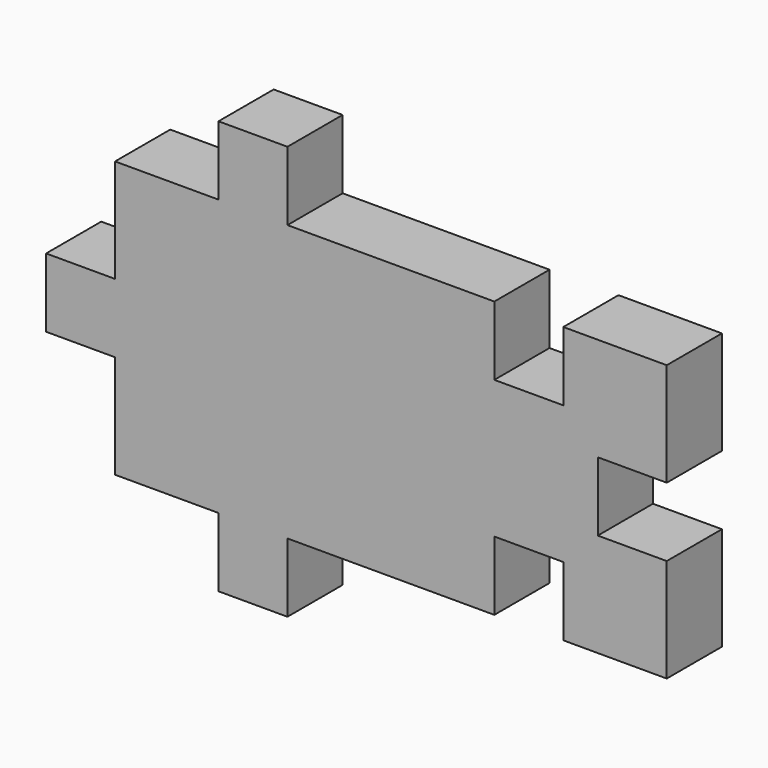
from build123d import *

# Parameters (mm, degrees)
F1_DEPTH = 6.35


with BuildPart() as f1:
    # F0 (on Front) → F1 (new body)
    with BuildSketch(Plane.XZ):
        Polygon((9.525, 12.7), (0, 12.7), (-9.525, 12.7), (-9.525, 19.05), (-15.875, 19.05), (-15.875, 12.7), (-25.4, 12.7), (-25.4, 3.175), (-31.75, 3.175), (-31.75, -3.175), (-25.4, -3.175), (-25.4, -12.7), (-15.875, -12.7), (-15.875, -19.05), (-9.525, -19.05), (-9.525, -12.7), (0, -12.7), (9.525, -12.7), (9.525, -6.35), (15.875, -6.35), (15.875, -12.7), (19.05, -12.7), (25.4, -12.7), (25.4, -3.175), (19.05, -3.175), (19.05, 3.175), (25.4, 3.175), (25.4, 12.7), (19.05, 12.7), (15.875, 12.7), (15.875, 6.35), (9.525, 6.35), align=None)
    extrude(amount=F1_DEPTH)


solid = f1.part
